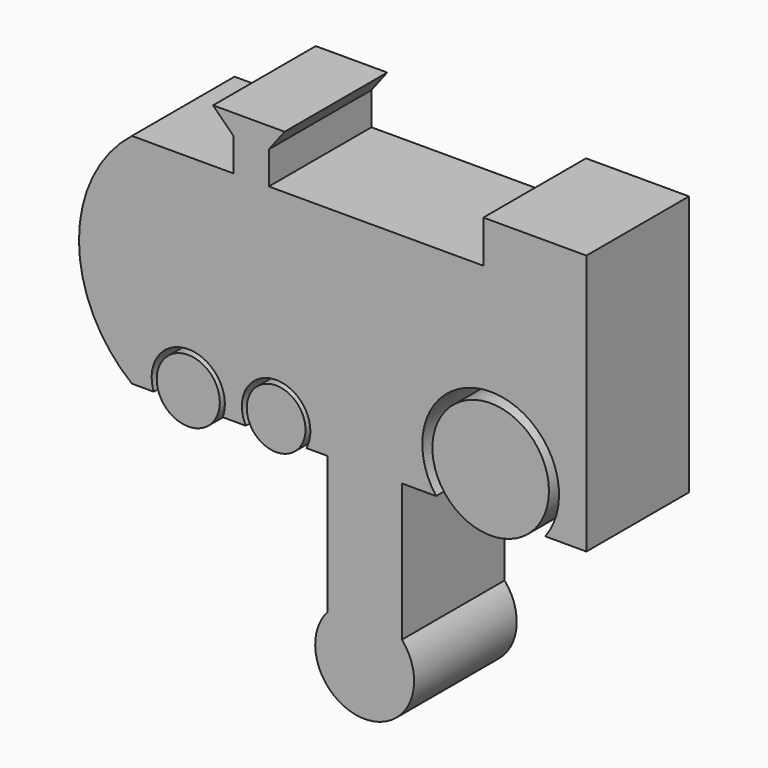
from build123d import *

# Parameters (mm, degrees)
F0_R     = 11.542025
F0_R_2   = 5.815135
F0_R_3   = 6.247285
F2_DEPTH = 25.4


with BuildPart() as f2:
    # F0 (on Front) → F2 (new body)
    with BuildSketch(Plane.XZ):
        with BuildLine():
            Line((-11.564288, 0), (-7.416946, 0))
            Line((-7.416946, 0), (-7.416946, -27.234871))
            ThreePointArc((-7.416946, -27.234871), (-0.033269, -43.470122), (7.350408, -27.234871))
            Line((7.350408, -27.234871), (7.350408, 0))
            Line((7.350408, 0), (14.115632, 0))
            ThreePointArc((14.115632, 0), (12.48941, 13.543608), (23.475604, 21.629241))
            Line((23.475604, 21.629241), (23.475604, 43.194041))
            Line((23.475604, 43.194041), (-19.004267, 43.194041))
            Line((-19.004267, 43.194041), (-19.004267, 49.674023))
            Line((-19.004267, 49.674023), (-15.884276, 53.754009))
            Line((-15.884276, 53.754009), (-30.044233, 53.754009))
            Line((-30.044233, 53.754009), (-25.964245, 49.674023))
            Line((-25.964245, 49.674023), (-25.964245, 43.194041))
            Line((-25.964245, 43.194041), (-46.124186, 43.194041))
            ThreePointArc((-46.124186, 43.194041), (-56.604903, 21.59702), (-46.124186, 0))
            Line((-46.124186, 0), (-41.804198, 0))
            ThreePointArc((-41.804198, 0), (-34.964219, 9.649234), (-28.124239, 0))
            Line((-28.124239, 0), (-23.564253, 0))
            ThreePointArc((-23.564253, 0), (-17.564271, 9.947645), (-11.564288, 0))
        make_face()
        with BuildLine():
            Line((23.475604, 43.194041), (23.475604, 21.629241))
            ThreePointArc((23.475604, 21.629241), (36.699415, 14.834669), (35.715569, 0))
            Line((35.715569, 0), (43.875545, 0))
            Line((43.875545, 0), (43.875545, 51.594015))
            Line((43.875545, 51.594015), (23.475604, 51.594015))
            Line((23.475604, 51.594015), (23.475604, 43.194041))
        make_face()
        with Locations((24.9156, 8.166221)):
            Circle(F0_R)
        with Locations((-17.564271, 3.16436)):
            Circle(F0_R_2)
        with Locations((-34.964219, 2.400315)):
            Circle(F0_R_3)
    extrude(amount=F2_DEPTH)


solid = f2.part
